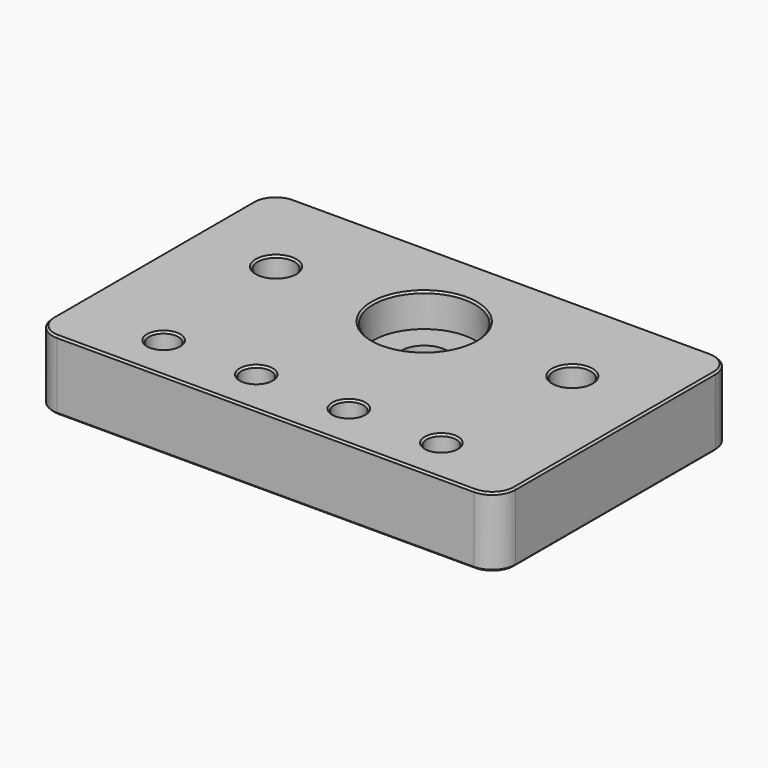
from build123d import *

# Parameters (mm, degrees)
SKETCH_W        = 100
SKETCH_H        = 64
SKETCH_R        = 5
SKETCH_R_2      = 3.2
SKETCH_R_3      = 4
PAD_DEPTH       = 15
SKETCH001_R     = 11.02
POCKET_DEPTH    = 7.2
SKETCH002_R     = 6
POCKET001_DEPTH = 6
SKETCH003_R     = 3.2
POCKET002_DEPTH = 15
SKETCH004_R     = 8.4
POCKET003_DEPTH = 8
FILLET_R        = 5
CHAMFER_SIZE    = 0.4
CHAMFER001_SIZE = 0.4


with BuildPart() as part:
    # Sketch → Pad (new body)
    with BuildSketch(Plane.XY):
        with Locations((50, 32)):
            Rectangle(SKETCH_W, SKETCH_H)
        with Locations((50, 42.85)):
            Circle(SKETCH_R, mode=Mode.SUBTRACT)
        with Locations((20, 10)):
            Circle(SKETCH_R_2, mode=Mode.SUBTRACT)
        with Locations((80, 10)):
            Circle(SKETCH_R_2, mode=Mode.SUBTRACT)
        with Locations((82, 42.85)):
            Circle(SKETCH_R_3, mode=Mode.SUBTRACT)
        with Locations((18, 42.85)):
            Circle(SKETCH_R_3, mode=Mode.SUBTRACT)
    extrude(amount=PAD_DEPTH)

    # Sketch001 (on Face11 of Pad) → Pocket (cut)
    with BuildSketch(Plane.XY.offset(15)):
        with Locations((50, 42.85)):
            Circle(SKETCH001_R)
    extrude(amount=-POCKET_DEPTH, mode=Mode.SUBTRACT)

    # Sketch002 (on Face4 of Pocket) → Pocket001 (cut)
    with BuildSketch(Plane(origin=(0, 0, 0), x_dir=(1, 0, 0), z_dir=(0, 0, -1))):
        with Locations((20, -10)):
            Circle(SKETCH002_R)
        with Locations((80, -10)):
            Circle(SKETCH002_R)
        with Locations((40, -10)):
            Circle(SKETCH002_R)
        with Locations((60, -10)):
            Circle(SKETCH002_R)
    extrude(amount=-POCKET001_DEPTH, mode=Mode.SUBTRACT)

    # Sketch003 (on Face5 of Pocket001) → Pocket002 (cut)
    with BuildSketch(Plane.XY.offset(15)):
        with Locations((40, 10)):
            Circle(SKETCH003_R)
        with Locations((60, 10)):
            Circle(SKETCH003_R)
    extrude(amount=-POCKET002_DEPTH, mode=Mode.SUBTRACT)

    # Sketch004 (on Face4 of Pocket002) → Pocket003 (cut)
    with BuildSketch(Plane(origin=(0, 0, 0), x_dir=(1, 0, 0), z_dir=(0, 0, -1))):
        with Locations((18, -42.85)):
            Circle(SKETCH004_R)
        with Locations((82, -42.85)):
            Circle(SKETCH004_R)
    extrude(amount=-POCKET003_DEPTH, mode=Mode.SUBTRACT)

    # Fillet
    fillet_edges = [part.edges().sort_by_distance(p)[0] for p in [
        (100, 0, 7.5),
        (0, 0, 7.5),
        (100, 64, 7.5),
        (0, 64, 7.5),
    ]]
    fillet(fillet_edges, radius=FILLET_R)

    # Chamfer
    chamfer_edges = [part.edges().sort_by_distance(p)[0] for p in [
        (50, 64, 15),
        (1.464466, 62.535534, 15),
        (98.535534, 62.535534, 15),
        (0, 32, 15),
        (100, 32, 15),
        (1.464466, 1.464466, 15),
        (98.535534, 1.464466, 15),
        (50, 0, 15),
        (76.8, 10, 15),
        (56.8, 10, 15),
        (36.8, 10, 15),
        (16.8, 10, 15),
        (78, 42.85, 15),
        (38.98, 42.85, 15),
        (14, 42.85, 15),
    ]]
    chamfer(chamfer_edges, length=CHAMFER_SIZE)

    # Chamfer001
    chamfer001_edges = [part.edges().sort_by_distance(p)[0] for p in [
        (50, 64, 0),
        (1.464466, 62.535534, 0),
        (98.535534, 62.535534, 0),
        (0, 32, 0),
        (100, 32, 0),
        (1.464466, 1.464466, 0),
        (98.535534, 1.464466, 0),
        (50, 0, 0),
        (74, 10, 0),
        (54, 10, 0),
        (34, 10, 0),
        (14, 10, 0),
        (73.6, 42.85, 0),
        (45, 42.85, 0),
        (9.6, 42.85, 0),
    ]]
    chamfer(chamfer001_edges, length=CHAMFER001_SIZE)


solid = part.part
